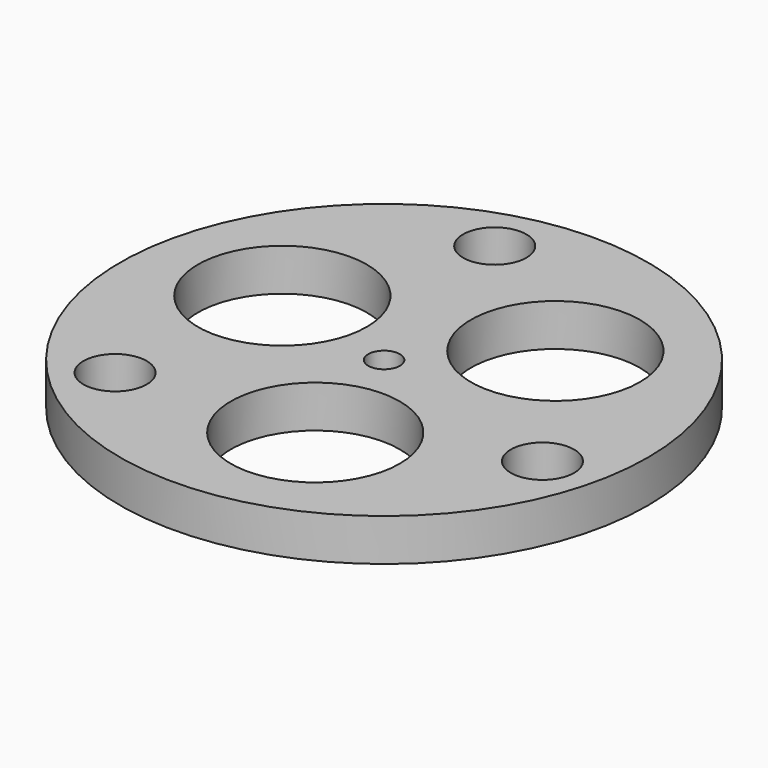
from build123d import *

# Parameters (mm, degrees)
F0_R     = 25
F0_R_2   = 3
F0_R_3   = 8
F0_R_4   = 1.5
F1_DEPTH = 4


with BuildPart() as f1:
    # F0 (on Top) → F1 (new body)
    with BuildSketch(Plane.XY):
        with Locations((0.005319, -0.019853)):
            Circle(F0_R)
        with Locations((-14.256939, -14.040836)):
            Circle(F0_R_2, mode=Mode.SUBTRACT)
        with Locations((3.288149, -12.27154)):
            Circle(F0_R_3, mode=Mode.SUBTRACT)
        with Locations((19.278977, -5.360839)):
            Circle(F0_R_2, mode=Mode.SUBTRACT)
        with Locations((-12.300308, 3.316917)):
            Circle(F0_R_3, mode=Mode.SUBTRACT)
        with Locations((-5.006079, 19.342117)):
            Circle(F0_R_2, mode=Mode.SUBTRACT)
        with Locations((0.005319, -0.019853)):
            Circle(F0_R_4, mode=Mode.SUBTRACT)
        with Locations((8.993921, 9.022689)):
            Circle(F0_R_3, mode=Mode.SUBTRACT)
    extrude(amount=F1_DEPTH)


solid = f1.part
